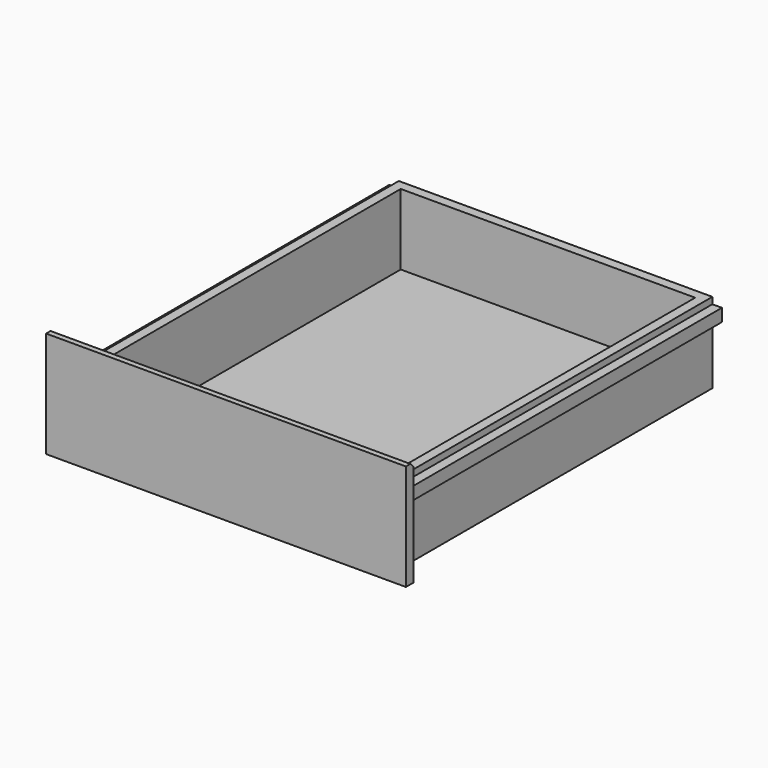
from build123d import *

# Parameters (mm, degrees)
F0_W     = 623.337
F0_H     = 160
F1_DEPTH = 800
F2_T     = -19
F3_W     = 19
F3_H     = 25
F4_DEPTH = 800
F6_W     = 715.337
F6_H     = 211
F7_DEPTH = 19
F9_SIZE  = 8


with BuildPart() as f1:
    # F0 (on Front) → F1 (new body)
    with BuildSketch(Plane.XZ):
        with Locations((311.6685, 80)):
            Rectangle(F0_W, F0_H)
    extrude(amount=F1_DEPTH)

    # F2
    f2_openings = [f1.faces().sort_by_distance(p)[0] for p in [
        (311.6685, -400, 160),
    ]]
    offset(amount=F2_T, openings=f2_openings)


with BuildPart() as f4:
    # F3 (on face) → F4 (new body)
    with BuildSketch(Plane.XZ.offset(800)):
        with Locations((-9.5, 134.5)):
            Rectangle(F3_W, F3_H)
        with Locations((632.837, 134.5)):
            Rectangle(F3_W, F3_H)
    extrude(amount=-F4_DEPTH)


with BuildPart() as f1_1:
    add(f1.part)

    # F5: union F4
    add(f4.part)

    # F6 (on face) → F7 (join)
    with BuildSketch(Plane.XZ.offset(800)):
        with Locations((311.6685, 105.5)):
            Rectangle(F6_W, F6_H)
    extrude(amount=F7_DEPTH)

    # F9
    f9_edges = [f1_1.edges().sort_by_distance(p)[0] for p in [
        (311.6685, -800, 211),
    ]]
    chamfer(f9_edges, length=F9_SIZE)


solid = f1_1.part
